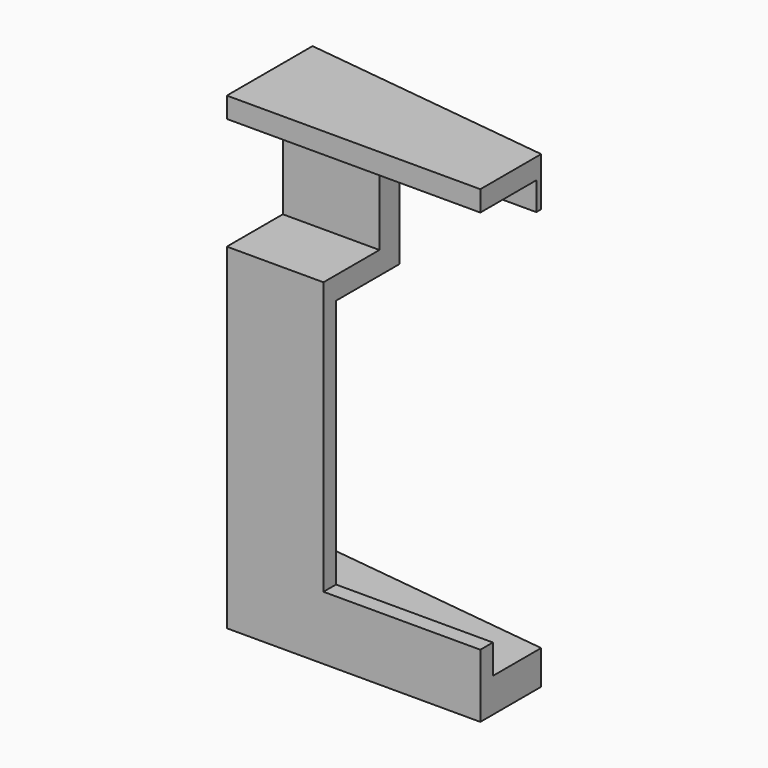
from build123d import *

# Parameters (mm, degrees)
F0_W     = 20
F0_H     = 6
F1_DEPTH = 37
F2_W     = 13.574068
F2_H     = 22.032887
F2_W_2   = 8.901329
F2_H_2   = 8.866575
F3_DEPTH = 12.5
F4_W     = 22.673105
F4_H     = 28.148874
F5_DEPTH = 12.5


with BuildPart() as f1:
    # F0 (on Top) → F1 (new body)
    with BuildSketch(Plane.XY):
        with Locations((0.443081, 0)):
            Rectangle(F0_W, F0_H)
        Polygon((-9.556919, 3), (10.443081, 3), (-9.556919, 5.455691), align=None)
    extrude(amount=F1_DEPTH)

    # F2 (on Right) → F3 (cut, symmetric)
    with BuildSketch(Plane.YZ):
        with Locations((5.025405, 13.710695)):
            Rectangle(F2_W, F2_H)
        with Locations((-1.928942, 30.943508)):
            Rectangle(F2_W_2, F2_H_2)
    extrude(amount=F3_DEPTH, both=True, mode=Mode.SUBTRACT)

    # F4 (on Front) → F5 (cut, symmetric)
    with BuildSketch(Plane.XZ):
        with Locations((9.403651, 19.088611)):
            Rectangle(F4_W, F4_H)
    extrude(amount=F5_DEPTH, both=True, mode=Mode.SUBTRACT)


solid = f1.part
